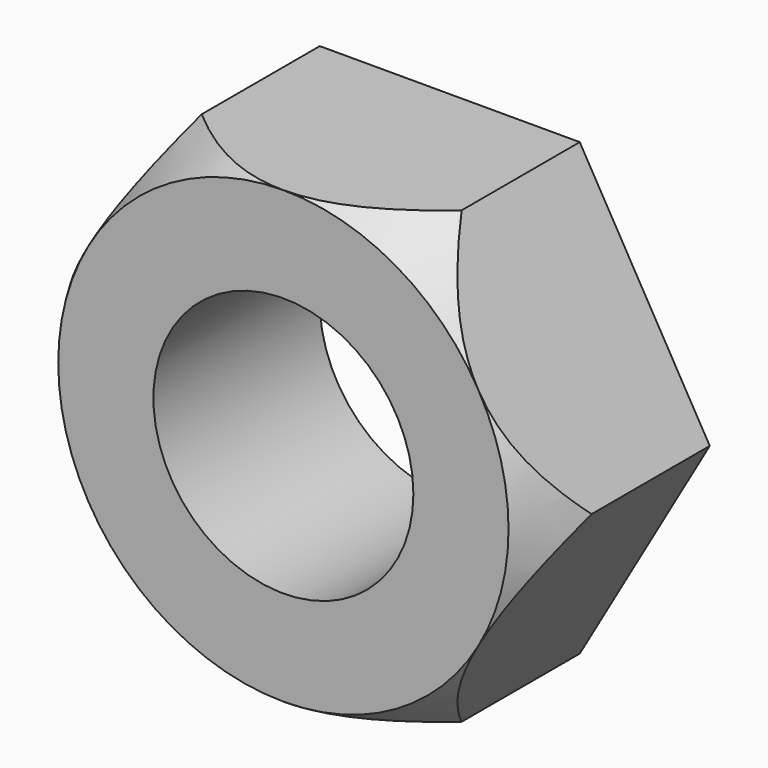
from build123d import *

# Parameters (mm, degrees)
F0_R     = 12
F1_DEPTH = 19.2


with BuildPart() as f1:
    # F0 (on Front) → F1 (new body)
    with BuildSketch(Plane.XZ):
        Polygon((12, 20.78461), (-12, 20.78461), (-24, 0), (-12, -20.78461), (12, -20.78461), (24, 0), align=None)
        Circle(F0_R, mode=Mode.SUBTRACT)
    extrude(amount=F1_DEPTH)

    # F3 (on Top) → F4 (revolve, cut)
    with BuildSketch(Plane.XY):
        Polygon((24, -13.630781), (20.78461, -19.2), (24, -19.2), align=None)
    revolve(axis=Axis((0, -13.686204, 0), (0, 1, 0)), mode=Mode.SUBTRACT)


solid = f1.part
